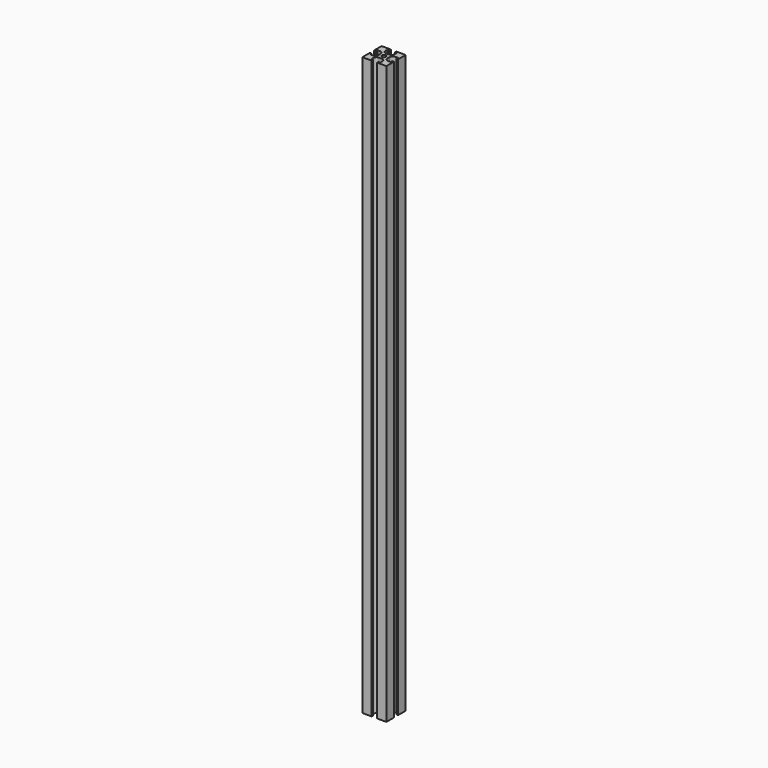
from build123d import *

# Parameters (mm, degrees)
F0_R     = 1.25
F0_W     = 1.1
F0_H     = 1.15
F0_W_2   = 1.15
F0_H_2   = 1.1
F1_DEPTH = 360


with BuildPart() as f1:
    # F0 (on Top) → F1 (new body)
    with BuildSketch(Plane.XY):
        with BuildLine():
            Line((-2.85, 7.5), (-7.5, 7.5))
            Line((-7.5, 7.5), (-7.5, 2.85))
            Line((-7.5, 2.85), (-6.4, 2.85))
            Line((-6.4, 2.85), (-4.8, 2.85))
            ThreePointArc((-4.8, 2.85), (-3.385786, 2.264214), (-2.8, 0.85))
            Line((-2.8, 0.85), (-2.8, -0.85))
            ThreePointArc((-2.8, -0.85), (-3.385786, -2.264214), (-4.8, -2.85))
            Line((-4.8, -2.85), (-6.4, -2.85))
            Line((-6.4, -2.85), (-7.5, -2.85))
            Line((-7.5, -2.85), (-7.5, -7.5))
            Line((-7.5, -7.5), (-2.85, -7.5))
            Line((-2.85, -7.5), (-2.85, -6.4))
            Line((-2.85, -6.4), (-2.85, -4.8))
            ThreePointArc((-2.85, -4.8), (-2.264214, -3.385786), (-0.85, -2.8))
            Line((-0.85, -2.8), (0.85, -2.8))
            ThreePointArc((0.85, -2.8), (2.264214, -3.385786), (2.85, -4.8))
            Line((2.85, -4.8), (2.85, -6.4))
            Line((2.85, -6.4), (2.85, -7.5))
            Line((2.85, -7.5), (7.5, -7.5))
            Line((7.5, -7.5), (7.5, -2.85))
            Line((7.5, -2.85), (6.4, -2.85))
            Line((6.4, -2.85), (4.8, -2.85))
            ThreePointArc((4.8, -2.85), (3.385786, -2.264214), (2.8, -0.85))
            Line((2.8, -0.85), (2.8, 0.85))
            ThreePointArc((2.8, 0.85), (3.385786, 2.264214), (4.8, 2.85))
            Line((4.8, 2.85), (6.4, 2.85))
            Line((6.4, 2.85), (7.5, 2.85))
            Line((7.5, 2.85), (7.5, 7.5))
            Line((7.5, 7.5), (2.85, 7.5))
            Line((2.85, 7.5), (2.85, 6.4))
            Line((2.85, 6.4), (2.85, 4.8))
            ThreePointArc((2.85, 4.8), (2.264214, 3.385786), (0.85, 2.8))
            Line((0.85, 2.8), (-0.85, 2.8))
            ThreePointArc((-0.85, 2.8), (-2.264214, 3.385786), (-2.85, 4.8))
            Line((-2.85, 4.8), (-2.85, 6.4))
            Line((-2.85, 6.4), (-2.85, 7.5))
        make_face()
        Circle(F0_R, mode=Mode.SUBTRACT)
        with Locations((-6.95, 2.275)):
            Rectangle(F0_W, F0_H)
        with Locations((-6.95, -2.275)):
            Rectangle(F0_W, F0_H)
        with Locations((-2.275, 6.95)):
            Rectangle(F0_W_2, F0_H_2)
        with Locations((2.275, 6.95)):
            Rectangle(F0_W_2, F0_H_2)
        with Locations((6.95, 2.275)):
            Rectangle(F0_W, F0_H)
        with Locations((6.95, -2.275)):
            Rectangle(F0_W, F0_H)
        with Locations((-2.275, -6.95)):
            Rectangle(F0_W_2, F0_H_2)
        with Locations((2.275, -6.95)):
            Rectangle(F0_W_2, F0_H_2)
    extrude(amount=F1_DEPTH)


solid = f1.part
